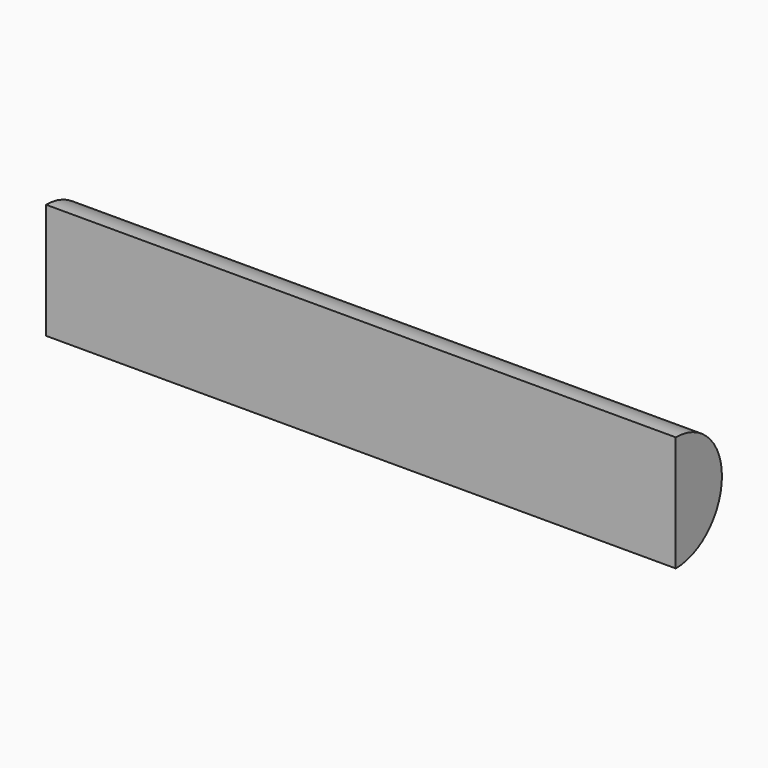
from build123d import *

# Parameters (mm, degrees)
F1_DEPTH = 95.25


with BuildPart() as f1:
    # F0 (on Right) → F1 (new body)
    with BuildSketch(Plane.YZ):
        with BuildLine():
            Line((0, 8.73125), (0, -8.73125))
            ThreePointArc((0, -8.73125), (8.73125, 0), (0, 8.73125))
        make_face()
    extrude(amount=F1_DEPTH)


solid = f1.part
